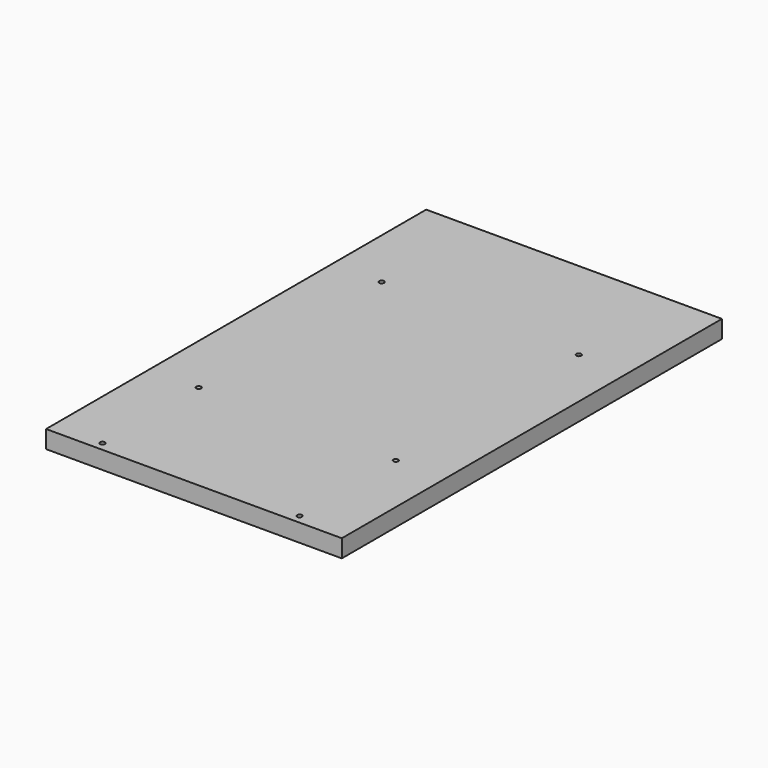
from build123d import *

# Parameters (mm, degrees)
F0_W     = 300
F0_H     = 482
F1_DEPTH = 18
F2_R     = 2.5
F3_DEPTH = 18


with BuildPart() as f1:
    # F0 (on Top) → F1 (new body)
    with BuildSketch(Plane.XY):
        with Locations((-150, -241)):
            Rectangle(F0_W, F0_H)
    extrude(amount=F1_DEPTH)

    # F2 (on face) → F3 (cut)
    with BuildSketch(Plane.XY.offset(18)):
        with Locations((-250, -119)):
            Circle(F2_R)
        with Locations((-50, -119)):
            Circle(F2_R)
        with Locations((-250, -351)):
            Circle(F2_R)
        with Locations((-50, -351)):
            Circle(F2_R)
        with Locations((-250, -473)):
            Circle(F2_R)
        with Locations((-50, -473)):
            Circle(F2_R)
    extrude(amount=-F3_DEPTH, mode=Mode.SUBTRACT)


solid = f1.part
